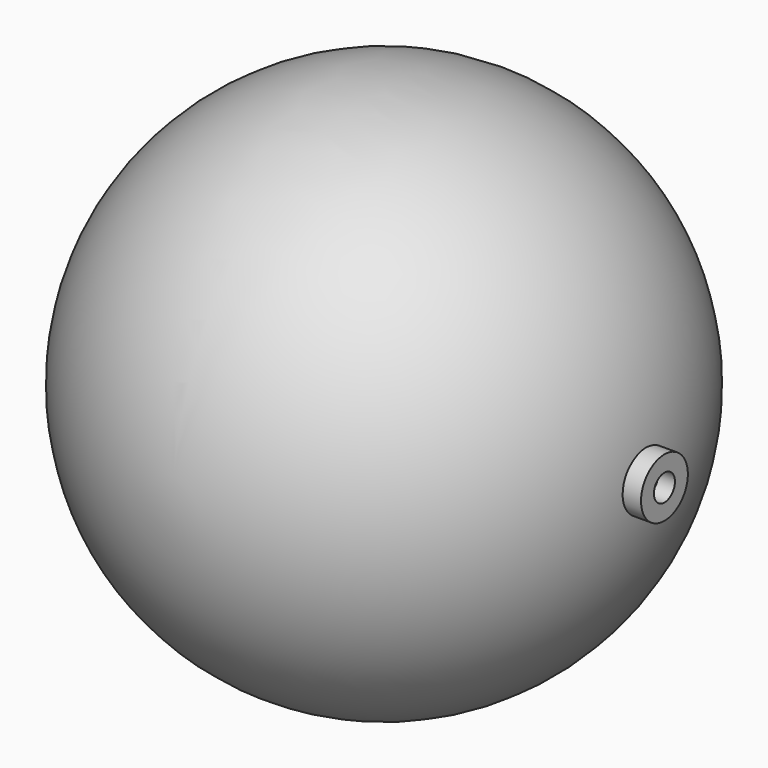
from build123d import *

# Parameters (mm, degrees)
F2_R     = 5.914765
F2_R_2   = 2.657835
F3_DEPTH = 56.642


with BuildPart() as f1:
    # F0 (on Right) → F1 (revolve)
    with BuildSketch(Plane.YZ):
        with BuildLine():
            Line((-53.342912, 0), (53.342912, 0))
            ThreePointArc((53.342912, 0), (0, 53.342912), (-53.342912, 0))
        make_face()
    revolve(axis=Axis((0, 0, 0), (0, 1, 0)))


with BuildPart() as f3:
    # F2 (on Right) → F3 (new body)
    with BuildSketch(Plane.YZ):
        Circle(F2_R)
        Circle(F2_R_2, mode=Mode.SUBTRACT)
    extrude(amount=F3_DEPTH)


solid = Compound([f1.part, f3.part])
